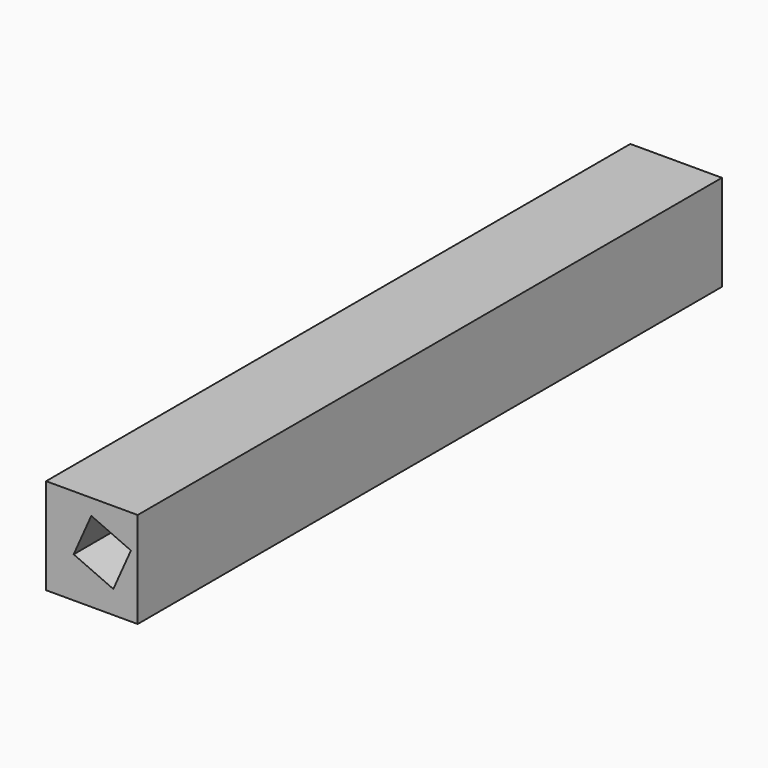
from build123d import *

# Parameters (mm, degrees)
F0_W     = 40.219121
F0_H     = 42.154662
F1_DEPTH = 38.431481
F3_W     = 40.219121
F3_H     = 42.154662
F4_DEPTH = 282.206297


with BuildPart() as f1:
    # F0 (on Front) → F1 (new body)
    with BuildSketch(Plane.XZ):
        with Locations((20.109561, 31.930771)):
            Rectangle(F0_W, F0_H)
    extrude(amount=F1_DEPTH)

    # F3 (on face) → F4 (join)
    with BuildSketch(Plane.XZ.offset(38.431481)):
        with Locations((20.109561, 31.930771)):
            Rectangle(F3_W, F3_H)
        Polygon((37.252998, 38.319705), (29.511055, 20.913811), (12.105161, 28.655754), (19.847104, 46.061648), align=None, mode=Mode.SUBTRACT)
    extrude(amount=F4_DEPTH)


solid = f1.part
